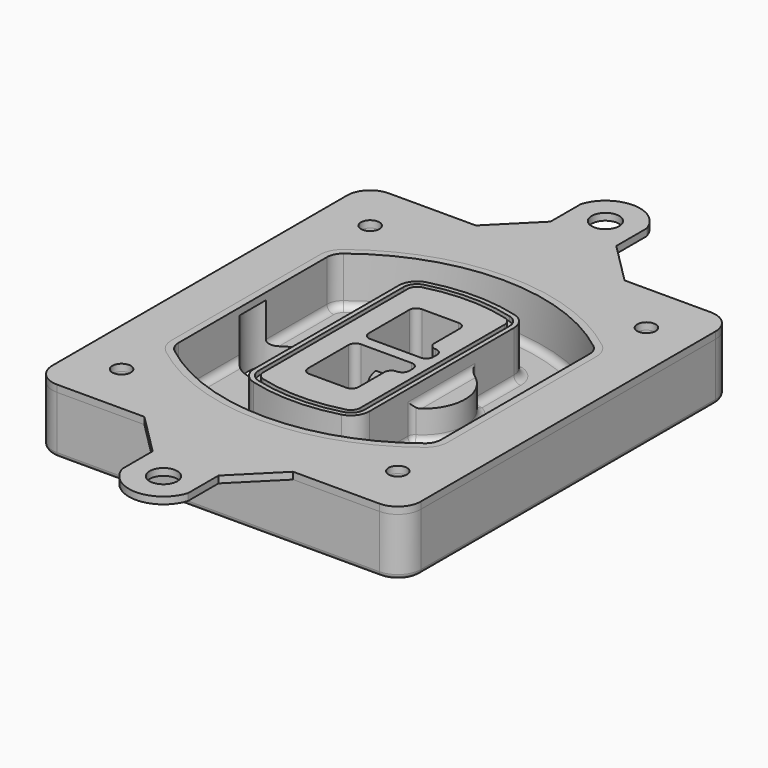
from build123d import *

# Parameters (mm, degrees)
F0_R      = 4
F1_DEPTH  = 25
F2_DEPTH  = 3
F3_DEPTH  = 18
F5_DEPTH  = 21
F6_DEPTH  = 2
F8_DEPTH  = 20
F9_DEPTH  = 16
F10_DEPTH = 25
F7_R      = 6
F7_R_2    = 4
F11_DEPTH = 6
F13_DEPTH = 9
F14_R     = 3
F15_R     = 2
F16_R     = 6
F16_R_2   = 4
F17_DEPTH = 3


with BuildPart() as f1:
    # F0 (on Top) → F1 (new body)
    with BuildSketch(Plane.XY):
        with BuildLine():
            ThreePointArc((-80, -80), (-77.0710678119, -87.0710678119), (-70, -90))
            Line((-70, -90), (70, -90))
            ThreePointArc((70, -90), (77.0710678119, -87.0710678119), (80, -80))
            Line((80, -80), (80, 80))
            ThreePointArc((80, 80), (77.0710678119, 87.0710678119), (70, 90))
            Line((70, 90), (-70, 90))
            ThreePointArc((-70, 90), (-77.0710678119, 87.0710678119), (-80, 80))
            Line((-80, 80), (-80, -80))
        make_face()
        with Locations((-60, -67.5)):
            Circle(F0_R, mode=Mode.SUBTRACT)
        with Locations((60, -67.5)):
            Circle(F0_R, mode=Mode.SUBTRACT)
        with Locations((-60, 67.5)):
            Circle(F0_R, mode=Mode.SUBTRACT)
        with BuildLine():
            ThreePointArc((-64, 40.2934422872), (-62.5820384798, 46.4328484224), (-58.6153846154, 51.3286200352))
            ThreePointArc((-58.6153846154, 51.3286200352), (0, 71.5), (58.6153846154, 51.3286200352))
            ThreePointArc((58.6153846154, 51.3286200352), (62.5820384798, 46.4328484224), (64, 40.2934422872))
            Line((64, 40.2934422872), (64, -40.2934422872))
            ThreePointArc((64, -40.2934422872), (62.5820384798, -46.4328484224), (58.6153846154, -51.3286200352))
            ThreePointArc((58.6153846154, -51.3286200352), (0, -71.5), (-58.6153846154, -51.3286200352))
            ThreePointArc((-58.6153846154, -51.3286200352), (-62.5820384798, -46.4328484224), (-64, -40.2934422872))
            Line((-64, -40.2934422872), (-64, 40.2934422872))
        make_face(mode=Mode.SUBTRACT)
        with Locations((60, 67.5)):
            Circle(F0_R, mode=Mode.SUBTRACT)
        with BuildLine():
            ThreePointArc((58.6153846154, 51.3286200352), (0, 71.5), (-58.6153846154, 51.3286200352))
            ThreePointArc((-58.6153846154, 51.3286200352), (-62.5820384798, 46.4328484224), (-64, 40.2934422872))
            Line((-64, 40.2934422872), (-64, -40.2934422872))
            ThreePointArc((-64, -40.2934422872), (-62.5820384798, -46.4328484224), (-58.6153846154, -51.3286200352))
            ThreePointArc((-58.6153846154, -51.3286200352), (0, -71.5), (58.6153846154, -51.3286200352))
            ThreePointArc((58.6153846154, -51.3286200352), (62.5820384798, -46.4328484224), (64, -40.2934422872))
            Line((64, -40.2934422872), (64, 40.2934422872))
            ThreePointArc((64, 40.2934422872), (62.5820384798, 46.4328484224), (58.6153846154, 51.3286200352))
        make_face()
        with BuildLine():
            Line((-60, -40.2934422872), (-60, 40.2934422872))
            ThreePointArc((-60, 40.2934422872), (-58.9871703427, 44.6787323838), (-56.1538461538, 48.1757121072))
            ThreePointArc((-56.1538461538, 48.1757121072), (0, 67.5), (56.1538461538, 48.1757121072))
            ThreePointArc((56.1538461538, 48.1757121072), (58.9871703427, 44.6787323838), (60, 40.2934422872))
            Line((60, 40.2934422872), (60, -40.2934422872))
            ThreePointArc((60, -40.2934422872), (58.9871703427, -44.6787323838), (56.1538461538, -48.1757121072))
            ThreePointArc((56.1538461538, -48.1757121072), (0, -67.5), (-56.1538461538, -48.1757121072))
            ThreePointArc((-56.1538461538, -48.1757121072), (-58.9871703427, -44.6787323838), (-60, -40.2934422872))
        make_face(mode=Mode.SUBTRACT)
        with BuildLine():
            ThreePointArc((-56.1538461538, 48.1757121072), (-58.9871703427, 44.6787323838), (-60, 40.2934422872))
            Line((-60, 40.2934422872), (-60, -40.2934422872))
            ThreePointArc((-60, -40.2934422872), (-58.9871703427, -44.6787323838), (-56.1538461538, -48.1757121072))
            ThreePointArc((-56.1538461538, -48.1757121072), (0, -67.5), (56.1538461538, -48.1757121072))
            ThreePointArc((56.1538461538, -48.1757121072), (58.9871703427, -44.6787323838), (60, -40.2934422872))
            Line((60, -40.2934422872), (60, 40.2934422872))
            ThreePointArc((60, 40.2934422872), (58.9871703427, 44.6787323838), (56.1538461538, 48.1757121072))
            ThreePointArc((56.1538461538, 48.1757121072), (0, 67.5), (-56.1538461538, 48.1757121072))
        make_face()
        with BuildLine():
            ThreePointArc((54.3076923077, 45.8110311612), (56.2910192399, 43.3631453548), (57, 40.2934422872))
            Line((57, 40.2934422872), (57, -40.2934422872))
            ThreePointArc((57, -40.2934422872), (56.2910192399, -43.3631453548), (54.3076923077, -45.8110311612))
            ThreePointArc((54.3076923077, -45.8110311612), (0, -64.5), (-54.3076923077, -45.8110311612))
            ThreePointArc((-54.3076923077, -45.8110311612), (-56.2910192399, -43.3631453548), (-57, -40.2934422872))
            Line((-57, -40.2934422872), (-57, 40.2934422872))
            ThreePointArc((-57, 40.2934422872), (-56.2910192399, 43.3631453548), (-54.3076923077, 45.8110311612))
            ThreePointArc((-54.3076923077, 45.8110311612), (0, 64.5), (54.3076923077, 45.8110311612))
        make_face(mode=Mode.SUBTRACT)
        with BuildLine():
            Line((57, -40.2934422872), (57, 40.2934422872))
            ThreePointArc((57, 40.2934422872), (56.2910192399, 43.3631453548), (54.3076923077, 45.8110311612))
            ThreePointArc((54.3076923077, 45.8110311612), (0, 64.5), (-54.3076923077, 45.8110311612))
            ThreePointArc((-54.3076923077, 45.8110311612), (-56.2910192399, 43.3631453548), (-57, 40.2934422872))
            Line((-57, 40.2934422872), (-57, -40.2934422872))
            ThreePointArc((-57, -40.2934422872), (-56.2910192399, -43.3631453548), (-54.3076923077, -45.8110311612))
            ThreePointArc((-54.3076923077, -45.8110311612), (0, -64.5), (54.3076923077, -45.8110311612))
            ThreePointArc((54.3076923077, -45.8110311612), (56.2910192399, -43.3631453548), (57, -40.2934422872))
        make_face()
    extrude(amount=-F1_DEPTH)

    # F0 (on Top) → F2 (join)
    with BuildSketch(Plane.XY):
        with BuildLine():
            ThreePointArc((-56.1538461538, 48.1757121072), (-58.9871703427, 44.6787323838), (-60, 40.2934422872))
            Line((-60, 40.2934422872), (-60, -40.2934422872))
            ThreePointArc((-60, -40.2934422872), (-58.9871703427, -44.6787323838), (-56.1538461538, -48.1757121072))
            ThreePointArc((-56.1538461538, -48.1757121072), (0, -67.5), (56.1538461538, -48.1757121072))
            ThreePointArc((56.1538461538, -48.1757121072), (58.9871703427, -44.6787323838), (60, -40.2934422872))
            Line((60, -40.2934422872), (60, 40.2934422872))
            ThreePointArc((60, 40.2934422872), (58.9871703427, 44.6787323838), (56.1538461538, 48.1757121072))
            ThreePointArc((56.1538461538, 48.1757121072), (0, 67.5), (-56.1538461538, 48.1757121072))
        make_face()
        with BuildLine():
            ThreePointArc((54.3076923077, 45.8110311612), (56.2910192399, 43.3631453548), (57, 40.2934422872))
            Line((57, 40.2934422872), (57, -40.2934422872))
            ThreePointArc((57, -40.2934422872), (56.2910192399, -43.3631453548), (54.3076923077, -45.8110311612))
            ThreePointArc((54.3076923077, -45.8110311612), (0, -64.5), (-54.3076923077, -45.8110311612))
            ThreePointArc((-54.3076923077, -45.8110311612), (-56.2910192399, -43.3631453548), (-57, -40.2934422872))
            Line((-57, -40.2934422872), (-57, 40.2934422872))
            ThreePointArc((-57, 40.2934422872), (-56.2910192399, 43.3631453548), (-54.3076923077, 45.8110311612))
            ThreePointArc((-54.3076923077, 45.8110311612), (0, 64.5), (54.3076923077, 45.8110311612))
        make_face(mode=Mode.SUBTRACT)
    extrude(amount=F2_DEPTH)

    # F0 (on Top) → F3 (cut)
    with BuildSketch(Plane.XY):
        with BuildLine():
            Line((57, -40.2934422872), (57, 40.2934422872))
            ThreePointArc((57, 40.2934422872), (56.2910192399, 43.3631453548), (54.3076923077, 45.8110311612))
            ThreePointArc((54.3076923077, 45.8110311612), (0, 64.5), (-54.3076923077, 45.8110311612))
            ThreePointArc((-54.3076923077, 45.8110311612), (-56.2910192399, 43.3631453548), (-57, 40.2934422872))
            Line((-57, 40.2934422872), (-57, -40.2934422872))
            ThreePointArc((-57, -40.2934422872), (-56.2910192399, -43.3631453548), (-54.3076923077, -45.8110311612))
            ThreePointArc((-54.3076923077, -45.8110311612), (0, -64.5), (54.3076923077, -45.8110311612))
            ThreePointArc((54.3076923077, -45.8110311612), (56.2910192399, -43.3631453548), (57, -40.2934422872))
        make_face()
    extrude(amount=-F3_DEPTH, mode=Mode.SUBTRACT)

    # F4 (on face) → F5 (join, through all)
    with BuildSketch(Plane.XY.offset(3)):
        with BuildLine():
            ThreePointArc((-25, -39.2465276821), (-23.3511545998, -44.1109737193), (-19.0842911877, -46.9702398883))
            ThreePointArc((-19.0842911877, -46.9702398883), (0, -49.5), (19.0842911877, -46.9702398883))
            ThreePointArc((19.0842911877, -46.9702398883), (23.3511545998, -44.1109737193), (25, -39.2465276821))
            Line((25, -39.2465276821), (25, 39.2465276821))
            ThreePointArc((25, 39.2465276821), (23.3511545998, 44.1109737193), (19.0842911877, 46.9702398883))
            ThreePointArc((19.0842911877, 46.9702398883), (0, 49.5), (-19.0842911877, 46.9702398883))
            ThreePointArc((-19.0842911877, 46.9702398883), (-23.3511545998, 44.1109737193), (-25, 39.2465276821))
            Line((-25, 39.2465276821), (-25, -39.2465276821))
        make_face()
        with BuildLine():
            ThreePointArc((18.5632183908, 45.0393118368), (21.7633659499, 42.89486221), (23, 39.2465276821))
            Line((23, 39.2465276821), (23, -39.2465276821))
            ThreePointArc((23, -39.2465276821), (21.7633659499, -42.89486221), (18.5632183908, -45.0393118368))
            ThreePointArc((18.5632183908, -45.0393118368), (0, -47.5), (-18.5632183908, -45.0393118368))
            ThreePointArc((-18.5632183908, -45.0393118368), (-21.7633659499, -42.89486221), (-23, -39.2465276821))
            Line((-23, -39.2465276821), (-23, 39.2465276821))
            ThreePointArc((-23, 39.2465276821), (-21.7633659499, 42.89486221), (-18.5632183908, 45.0393118368))
            ThreePointArc((-18.5632183908, 45.0393118368), (0, 47.5), (18.5632183908, 45.0393118368))
        make_face(mode=Mode.SUBTRACT)
        with BuildLine():
            Line((23, -39.2465276821), (23, 39.2465276821))
            ThreePointArc((23, 39.2465276821), (21.7633659499, 42.89486221), (18.5632183908, 45.0393118368))
            ThreePointArc((18.5632183908, 45.0393118368), (0, 47.5), (-18.5632183908, 45.0393118368))
            ThreePointArc((-18.5632183908, 45.0393118368), (-21.7633659499, 42.89486221), (-23, 39.2465276821))
            Line((-23, 39.2465276821), (-23, -39.2465276821))
            ThreePointArc((-23, -39.2465276821), (-21.7633659499, -42.89486221), (-18.5632183908, -45.0393118368))
            ThreePointArc((-18.5632183908, -45.0393118368), (0, -47.5), (18.5632183908, -45.0393118368))
            ThreePointArc((18.5632183908, -45.0393118368), (21.7633659499, -42.89486221), (23, -39.2465276821))
        make_face()
        with BuildLine():
            ThreePointArc((18.0421455939, 43.1083837852), (20.1755772999, 41.6787507007), (21, 39.2465276821))
            Line((21, 39.2465276821), (21, -39.2465276821))
            ThreePointArc((21, -39.2465276821), (20.1755772999, -41.6787507007), (18.0421455939, -43.1083837852))
            ThreePointArc((18.0421455939, -43.1083837852), (0, -45.5), (-18.0421455939, -43.1083837852))
            ThreePointArc((-18.0421455939, -43.1083837852), (-20.1755772999, -41.6787507007), (-21, -39.2465276821))
            Line((-21, -39.2465276821), (-21, 39.2465276821))
            ThreePointArc((-21, 39.2465276821), (-20.1755772999, 41.6787507007), (-18.0421455939, 43.1083837852))
            ThreePointArc((-18.0421455939, 43.1083837852), (0, 45.5), (18.0421455939, 43.1083837852))
        make_face(mode=Mode.SUBTRACT)
        with BuildLine():
            Line((21, -39.2465276821), (21, 39.2465276821))
            ThreePointArc((21, 39.2465276821), (20.1755772999, 41.6787507007), (18.0421455939, 43.1083837852))
            ThreePointArc((18.0421455939, 43.1083837852), (0, 45.5), (-18.0421455939, 43.1083837852))
            ThreePointArc((-18.0421455939, 43.1083837852), (-20.1755772999, 41.6787507007), (-21, 39.2465276821))
            Line((-21, 39.2465276821), (-21, -39.2465276821))
            ThreePointArc((-21, -39.2465276821), (-20.1755772999, -41.6787507007), (-18.0421455939, -43.1083837852))
            ThreePointArc((-18.0421455939, -43.1083837852), (0, -45.5), (18.0421455939, -43.1083837852))
            ThreePointArc((18.0421455939, -43.1083837852), (20.1755772999, -41.6787507007), (21, -39.2465276821))
        make_face()
        with BuildLine():
            Line((-8, -2.5), (14, -2.5))
            ThreePointArc((14, -2.5), (16.1213203436, -3.3786796564), (17, -5.5))
            Line((17, -5.5), (17, -7.5))
            ThreePointArc((17, -7.5), (16.1213203436, -9.6213203436), (14, -10.5))
            ThreePointArc((14, -10.5), (11.8786796564, -11.3786796564), (11, -13.5))
            Line((11, -13.5), (11, -27.5))
            ThreePointArc((11, -27.5), (10.1213203436, -29.6213203436), (8, -30.5))
            Line((8, -30.5), (-8, -30.5))
            ThreePointArc((-8, -30.5), (-10.1213203436, -29.6213203436), (-11, -27.5))
            Line((-11, -27.5), (-11, -5.5))
            ThreePointArc((-11, -5.5), (-10.1213203436, -3.3786796564), (-8, -2.5))
        make_face(mode=Mode.SUBTRACT)
        with BuildLine():
            ThreePointArc((-8, 2.5), (-10.1213203436, 3.3786796564), (-11, 5.5))
            Line((-11, 5.5), (-11, 27.5))
            ThreePointArc((-11, 27.5), (-10.1213203436, 29.6213203436), (-8, 30.5))
            Line((-8, 30.5), (8, 30.5))
            ThreePointArc((8, 30.5), (10.1213203436, 29.6213203436), (11, 27.5))
            Line((11, 27.5), (11, 13.5))
            ThreePointArc((11, 13.5), (11.8786796564, 11.3786796564), (14, 10.5))
            ThreePointArc((14, 10.5), (16.1213203436, 9.6213203436), (17, 7.5))
            Line((17, 7.5), (17, 5.5))
            ThreePointArc((17, 5.5), (16.1213203436, 3.3786796564), (14, 2.5))
            Line((14, 2.5), (-8, 2.5))
        make_face(mode=Mode.SUBTRACT)
    extrude(amount=-F5_DEPTH)

    # F4 (on face) → F6 (cut)
    with BuildSketch(Plane.XY.offset(3)):
        with BuildLine():
            Line((23, -39.2465276821), (23, 39.2465276821))
            ThreePointArc((23, 39.2465276821), (21.7633659499, 42.89486221), (18.5632183908, 45.0393118368))
            ThreePointArc((18.5632183908, 45.0393118368), (0, 47.5), (-18.5632183908, 45.0393118368))
            ThreePointArc((-18.5632183908, 45.0393118368), (-21.7633659499, 42.89486221), (-23, 39.2465276821))
            Line((-23, 39.2465276821), (-23, -39.2465276821))
            ThreePointArc((-23, -39.2465276821), (-21.7633659499, -42.89486221), (-18.5632183908, -45.0393118368))
            ThreePointArc((-18.5632183908, -45.0393118368), (0, -47.5), (18.5632183908, -45.0393118368))
            ThreePointArc((18.5632183908, -45.0393118368), (21.7633659499, -42.89486221), (23, -39.2465276821))
        make_face()
        with BuildLine():
            ThreePointArc((18.0421455939, 43.1083837852), (20.1755772999, 41.6787507007), (21, 39.2465276821))
            Line((21, 39.2465276821), (21, -39.2465276821))
            ThreePointArc((21, -39.2465276821), (20.1755772999, -41.6787507007), (18.0421455939, -43.1083837852))
            ThreePointArc((18.0421455939, -43.1083837852), (0, -45.5), (-18.0421455939, -43.1083837852))
            ThreePointArc((-18.0421455939, -43.1083837852), (-20.1755772999, -41.6787507007), (-21, -39.2465276821))
            Line((-21, -39.2465276821), (-21, 39.2465276821))
            ThreePointArc((-21, 39.2465276821), (-20.1755772999, 41.6787507007), (-18.0421455939, 43.1083837852))
            ThreePointArc((-18.0421455939, 43.1083837852), (0, 45.5), (18.0421455939, 43.1083837852))
        make_face(mode=Mode.SUBTRACT)
    extrude(amount=-F6_DEPTH, mode=Mode.SUBTRACT)

    # F7 (on face) → F8 (join)
    with BuildSketch(Plane(origin=(0, 0, -25), x_dir=(1, 0, 0), z_dir=(0, 0, -1))):
        with BuildLine():
            ThreePointArc((3.28842436, 0), (16.7567035675, 13.4682792075), (30.224982775, 0))
            Line((30.224982775, 0), (35.224982775, 0))
            ThreePointArc((35.224982775, 0), (16.7567035675, 18.4682792075), (-1.71157564, 0))
            Line((-1.71157564, 0), (3.28842436, 0))
        make_face()
        with BuildLine():
            Line((3.28842436, 0), (30.224982775, 0))
            ThreePointArc((30.224982775, 0), (16.7567035675, 13.4682792075), (3.28842436, 0))
        make_face()
        with BuildLine():
            ThreePointArc((3.28842436, 0), (16.7567035675, -13.4682792075), (30.224982775, 0))
            Line((30.224982775, 0), (3.28842436, 0))
        make_face()
        with BuildLine():
            Line((35.224982775, 0), (30.224982775, 0))
            ThreePointArc((30.224982775, 0), (16.7567035675, -13.4682792075), (3.28842436, 0))
            Line((3.28842436, 0), (-1.71157564, 0))
            ThreePointArc((-1.71157564, 0), (16.7567035675, -18.4682792075), (35.224982775, 0))
        make_face()
    extrude(amount=-F8_DEPTH)

    # F7 (on face) → F9 (cut)
    with BuildSketch(Plane(origin=(0, 0, -25), x_dir=(1, 0, 0), z_dir=(0, 0, -1))):
        with BuildLine():
            Line((3.28842436, 0), (30.224982775, 0))
            ThreePointArc((30.224982775, 0), (16.7567035675, 13.4682792075), (3.28842436, 0))
        make_face()
        with BuildLine():
            ThreePointArc((3.28842436, 0), (16.7567035675, -13.4682792075), (30.224982775, 0))
            Line((30.224982775, 0), (3.28842436, 0))
        make_face()
    extrude(amount=-F9_DEPTH, mode=Mode.SUBTRACT)

    # F7 (on face) → F10 (cut)
    with BuildSketch(Plane(origin=(0, 0, -25), x_dir=(1, 0, 0), z_dir=(0, 0, -1))):
        with BuildLine():
            Line((-59.0318229325, 0), (-32.0952645175, 0))
            ThreePointArc((-32.0952645175, 0), (-45.563543725, 13.4682792075), (-59.0318229325, 0))
        make_face()
        with BuildLine():
            ThreePointArc((-59.0318229325, 0), (-45.563543725, -13.4682792075), (-32.0952645175, 0))
            Line((-32.0952645175, 0), (-59.0318229325, 0))
        make_face()
    extrude(amount=-F10_DEPTH, mode=Mode.SUBTRACT)

    # F7 (on face) → F11 (cut)
    with BuildSketch(Plane(origin=(0, 0, -25), x_dir=(1, 0, 0), z_dir=(0, 0, -1))):
        with Locations((60, -67.5)):
            Circle(F7_R)
        with Locations((60, -67.5)):
            Circle(F7_R_2, mode=Mode.SUBTRACT)
        with Locations((60, -67.5)):
            Circle(F7_R)
        with Locations((60, -67.5)):
            Circle(F7_R_2, mode=Mode.SUBTRACT)
        with Locations((-60, -67.5)):
            Circle(F7_R)
        with Locations((-60, -67.5)):
            Circle(F7_R_2, mode=Mode.SUBTRACT)
        with Locations((-60, -67.5)):
            Circle(F7_R)
        with Locations((-60, -67.5)):
            Circle(F7_R_2, mode=Mode.SUBTRACT)
        with Locations((-60, 67.5)):
            Circle(F7_R)
        with Locations((-60, 67.5)):
            Circle(F7_R_2, mode=Mode.SUBTRACT)
        with Locations((-60, 67.5)):
            Circle(F7_R)
        with Locations((-60, 67.5)):
            Circle(F7_R_2, mode=Mode.SUBTRACT)
        with Locations((60, 67.5)):
            Circle(F7_R)
        with Locations((60, 67.5)):
            Circle(F7_R_2, mode=Mode.SUBTRACT)
        with Locations((60, 67.5)):
            Circle(F7_R)
        with Locations((60, 67.5)):
            Circle(F7_R_2, mode=Mode.SUBTRACT)
    extrude(amount=-F11_DEPTH, mode=Mode.SUBTRACT)

    # F12 (on face) → F13 (cut, through all)
    with BuildSketch(Plane(origin=(0, 0, -9), x_dir=(1, 0, 0), z_dir=(0, 0, -1))):
        with BuildLine():
            Line((11, 13.5), (11, 17.5481537753))
            ThreePointArc((11, 17.5481537753), (2.5696536419, 11.8239143813), (-1.5415842455, 2.5))
            Line((-1.5415842455, 2.5), (3.5224848595, 2.5))
            ThreePointArc((3.5224848595, 2.5), (6.1857188154, 8.3455872281), (11.2536447004, 12.2927168648))
            ThreePointArc((11.2536447004, 12.2927168648), (11.0640958889, 12.8831798879), (11, 13.5))
        make_face()
        with BuildLine():
            ThreePointArc((11.2536447004, -12.2927168648), (6.1857188154, -8.3455872281), (3.5224848595, -2.5))
            Line((3.5224848595, -2.5), (-1.5415842455, -2.5))
            ThreePointArc((-1.5415842455, -2.5), (2.5696536419, -11.8239143813), (11, -17.5481537753))
            Line((11, -17.5481537753), (11, -13.5))
            ThreePointArc((11, -13.5), (11.0640958889, -12.8831798879), (11.2536447004, -12.2927168648))
        make_face()
        with BuildLine():
            ThreePointArc((11.2536447004, 12.2927168648), (6.1857188154, 8.3455872281), (3.5224848595, 2.5))
            Line((3.5224848595, 2.5), (14, 2.5))
            ThreePointArc((14, 2.5), (16.1213203436, 3.3786796564), (17, 5.5))
            Line((17, 5.5), (17, 7.5))
            ThreePointArc((17, 7.5), (16.1213203436, 9.6213203436), (14, 10.5))
            ThreePointArc((14, 10.5), (12.3601599782, 10.9878446101), (11.2536447004, 12.2927168648))
        make_face()
        with BuildLine():
            Line((14, -2.5), (3.5224848595, -2.5))
            ThreePointArc((3.5224848595, -2.5), (6.1857188154, -8.3455872281), (11.2536447004, -12.2927168648))
            ThreePointArc((11.2536447004, -12.2927168648), (12.3601599782, -10.9878446101), (14, -10.5))
            ThreePointArc((14, -10.5), (16.1213203436, -9.6213203436), (17, -7.5))
            Line((17, -7.5), (17, -5.5))
            ThreePointArc((17, -5.5), (16.1213203436, -3.3786796564), (14, -2.5))
        make_face()
    extrude(amount=F13_DEPTH, mode=Mode.SUBTRACT)

    # F14
    f14_edges = [f1.edges().sort_by_distance(p)[0] for p in [
        (-57, -23.703476, -18),
        (-57, 23.703476, -18),
        (25, 0, -5),
        (25, 16.526506, -11.5),
        (25, -16.526506, -11.5),
        (25, -27.886517, -18),
        (35.224983, 0, -18),
    ]]
    fillet(f14_edges, radius=F14_R)

    # F15
    f15_edges = [f1.edges().sort_by_distance(p)[0] for p in [
        (0, -90, -25),
    ]]
    fillet(f15_edges, radius=F15_R)


with BuildPart() as f17:
    # F16 (on face) → F17 (new body, through all)
    with BuildSketch(Plane.XY):
        with BuildLine():
            Line((-14.0874328879, 124.5525658177), (-14.0874328879, 108))
            Line((-14.0874328879, 108), (-32.0874328879, 90))
            Line((-32.087432888, 90), (32.4974683346, 90))
            Line((32.4974683346, 90), (14.4974683346, 108))
            Line((14.4974683346, 108), (14.4974683346, 124.5525658177))
            ThreePointArc((14.4974683346, 124.5525658177), (0.2050177233, 135), (-14.0874328879, 124.5525658177))
        make_face()
        with Locations((0.2050177233, 120)):
            Circle(F16_R, mode=Mode.SUBTRACT)
        with BuildLine():
            Line((32.4974683346, 90), (-32.087432888, 90))
            Line((-32.087432888, 90), (-70, 90))
            ThreePointArc((-70, 90), (-77.0710678119, 87.0710678119), (-80, 80))
            Line((-80, 80), (-80, -80))
            ThreePointArc((-80, -80), (-77.0710678119, -87.0710678119), (-70, -90))
            Line((-70, -90), (-32.0874328879, -90))
            Line((-32.0874328879, -90), (32.4974683346, -90))
            Line((32.4974683346, -90), (70, -90))
            ThreePointArc((70, -90), (77.0710678119, -87.0710678119), (80, -80))
            Line((80, -80), (80, 80))
            ThreePointArc((80, 80), (77.0710678119, 87.0710678119), (70, 90))
            Line((70, 90), (32.4974683346, 90))
        make_face()
        with Locations((-60, -67.5)):
            Circle(F16_R_2, mode=Mode.SUBTRACT)
        with Locations((60, -67.5)):
            Circle(F16_R_2, mode=Mode.SUBTRACT)
        with Locations((-60, 67.5)):
            Circle(F16_R_2, mode=Mode.SUBTRACT)
        with BuildLine():
            ThreePointArc((-60, 40.2934422872), (-58.9871703427, 44.6787323838), (-56.1538461538, 48.1757121072))
            ThreePointArc((-56.1538461538, 48.1757121072), (0, 67.5), (56.1538461538, 48.1757121072))
            ThreePointArc((56.1538461538, 48.1757121072), (58.9871703427, 44.6787323838), (60, 40.2934422872))
            Line((60, 40.2934422872), (60, -40.2934422872))
            ThreePointArc((60, -40.2934422872), (58.9871703427, -44.6787323838), (56.1538461538, -48.1757121072))
            ThreePointArc((56.1538461538, -48.1757121072), (0, -67.5), (-56.1538461538, -48.1757121072))
            ThreePointArc((-56.1538461538, -48.1757121072), (-58.9871703427, -44.6787323838), (-60, -40.2934422872))
            Line((-60, -40.2934422872), (-60, 40.2934422872))
        make_face(mode=Mode.SUBTRACT)
        with Locations((60, 67.5)):
            Circle(F16_R_2, mode=Mode.SUBTRACT)
        with BuildLine():
            Line((32.4974683346, -90), (-32.0874328879, -90))
            Line((-32.0874328879, -90), (-14.0874328879, -108))
            Line((-14.087432888, -108), (-14.087432888, -124.5525658177))
            ThreePointArc((-14.0874328879, -124.5525658177), (0.2050177233, -135), (14.4974683346, -124.5525658177))
            Line((14.4974683346, -124.5525658177), (14.4974683346, -108))
            Line((14.4974683346, -108), (32.4974683346, -90))
        make_face()
        with Locations((0.2050177233, -120)):
            Circle(F16_R, mode=Mode.SUBTRACT)
    extrude(amount=F17_DEPTH)


solid = Compound([f1.part, f17.part])
